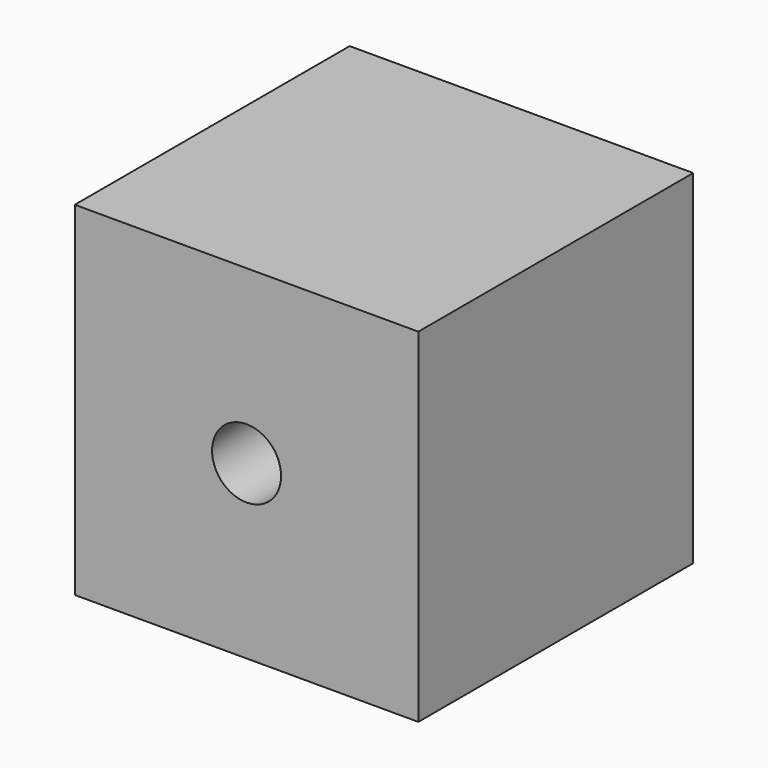
from build123d import *

# Parameters (mm, degrees)
F0_W     = 25.4
F0_H     = 25.4
F1_DEPTH = 12.7
F3_D     = 5.1054
F3_DEPTH = 16.51
F3_TIP   = 1.5338169022


with BuildPart() as f1:
    # F0 (on Front) → F1 (new body, symmetric)
    with BuildSketch(Plane.XZ):
        Rectangle(F0_W, F0_H)
    extrude(amount=F1_DEPTH, both=True)

    # F3
    with Locations(Plane.XZ.offset(12.7)):
        with Locations((0, 0)):
            Hole(F3_D / 2, depth=F3_DEPTH)
            with Locations((0, 0, -(F3_DEPTH + F3_TIP / 2))):  # 118° drill point
                Cone(0, F3_D / 2, F3_TIP, mode=Mode.SUBTRACT)


solid = f1.part
